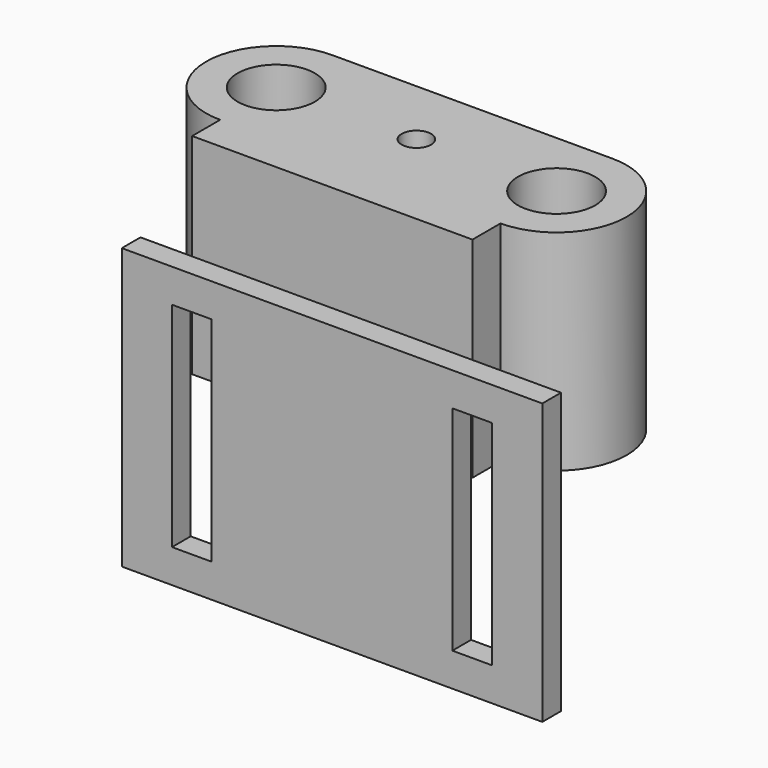
from build123d import *

# Parameters (mm, degrees)
F0_W     = 114.3
F0_H     = 76.2
F0_W_2   = 10.795
F0_H_2   = 58
F1_DEPTH = 6.35
F2_R     = 10.5
F2_R_2   = 4
F2_W     = 76.2
F2_H     = 9.525
F3_DEPTH = 57
F5_D     = 2.2606
F5_DEPTH = 9.525
F5_TIP   = 0.6791527577


with BuildPart() as f1:
    # F0 (on Front) → F1 (new body)
    with BuildSketch(Plane.XZ):
        Rectangle(F0_W, F0_H)
        with Locations((-38.1, 0)):
            Rectangle(F0_W_2, F0_H_2, mode=Mode.SUBTRACT)
        with Locations((38.1, 0)):
            Rectangle(F0_W_2, F0_H_2, mode=Mode.SUBTRACT)
    extrude(amount=F1_DEPTH)


with BuildPart() as f3:
    # F2 (on Top) → F3 (new body)
    with BuildSketch(Plane.XY):
        with BuildLine():
            ThreePointArc((-55.0017617643, 62.4885612607), (-74.0517617643, 43.4385612607), (-55.0017617643, 24.3885612607))
            Line((-55.0017617643, 24.3885612607), (21.1982382357, 24.3885612607))
            ThreePointArc((21.1982382357, 24.3885612607), (40.2482382357, 43.4385612607), (21.1982382357, 62.4885612607))
            Line((21.1982382357, 62.4885612607), (-55.0017617643, 62.4885612607))
        make_face()
        with Locations((-55.0017617643, 43.4385612607)):
            Circle(F2_R, mode=Mode.SUBTRACT)
        with Locations((-16.9017617643, 43.4385612607)):
            Circle(F2_R_2, mode=Mode.SUBTRACT)
        with Locations((21.1982382357, 43.4385612607)):
            Circle(F2_R, mode=Mode.SUBTRACT)
        with Locations((-16.9017617643, 19.6260612607)):
            Rectangle(F2_W, F2_H)
    extrude(amount=F3_DEPTH)

    # F5
    with Locations(Plane(origin=(0, 0, 0), x_dir=(1, 0, 0), z_dir=(0, 0, -1))):
        with Locations((-24.9017617643, -43.4385612607), (-16.9017617643, -35.4385612607), (-8.9017617643, -43.4385612607), (-16.9017617643, -51.4385612607)):
            Hole(F5_D / 2, depth=F5_DEPTH)
            with Locations((0, 0, -(F5_DEPTH + F5_TIP / 2))):  # 118° drill point
                Cone(0, F5_D / 2, F5_TIP, mode=Mode.SUBTRACT)


solid = Compound([f1.part, f3.part])
